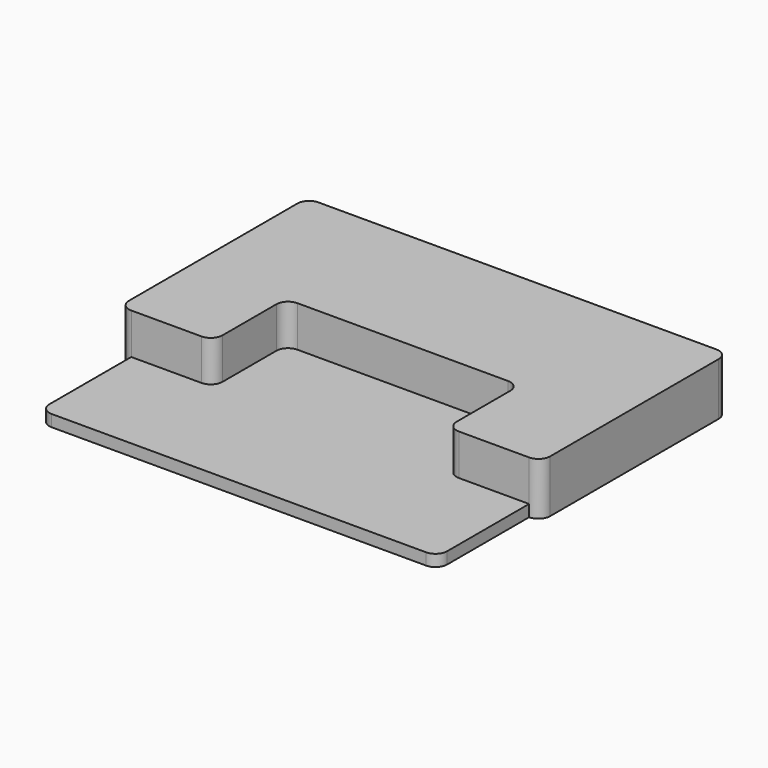
from build123d import *

# Parameters (mm, degrees)
F1_DEPTH = 114.3
F2_DEPTH = 25.4
F3_R     = 25.4


with BuildPart() as f1:
    # F0 (on Top) → F1 (new body)
    with BuildSketch(Plane.XY):
        Polygon((457.2, 0), (-457.2, 0), (-457.2, -508), (-431.8, -508), (-254, -508), (-254, -311.15), (254, -311.15), (254, -508), (431.8, -508), (457.2, -508), align=None)
    extrude(amount=F1_DEPTH)

    # F0 (on Top) → F2 (join)
    with BuildSketch(Plane.XY):
        Polygon((-254, -508), (-431.8, -508), (-431.8, -755.65), (431.8, -755.65), (431.8, -508), (254, -508), (254, -311.15), (-254, -311.15), align=None)
    extrude(amount=F2_DEPTH)

    # F3
    f3_edges = [f1.edges().sort_by_distance(p)[0] for p in [
        (-457.2, -508, 57.15),
        (-431.8, -755.65, 12.7),
        (-254, -508, 69.85),
        (254, -311.15, 69.85),
        (254, -508, 69.85),
        (457.2, -508, 57.15),
        (431.8, -755.65, 12.7),
        (-254, -311.15, 69.85),
        (457.2, 0, 57.15),
        (-457.2, 0, 57.15),
    ]]
    fillet(f3_edges, radius=F3_R)


solid = f1.part
